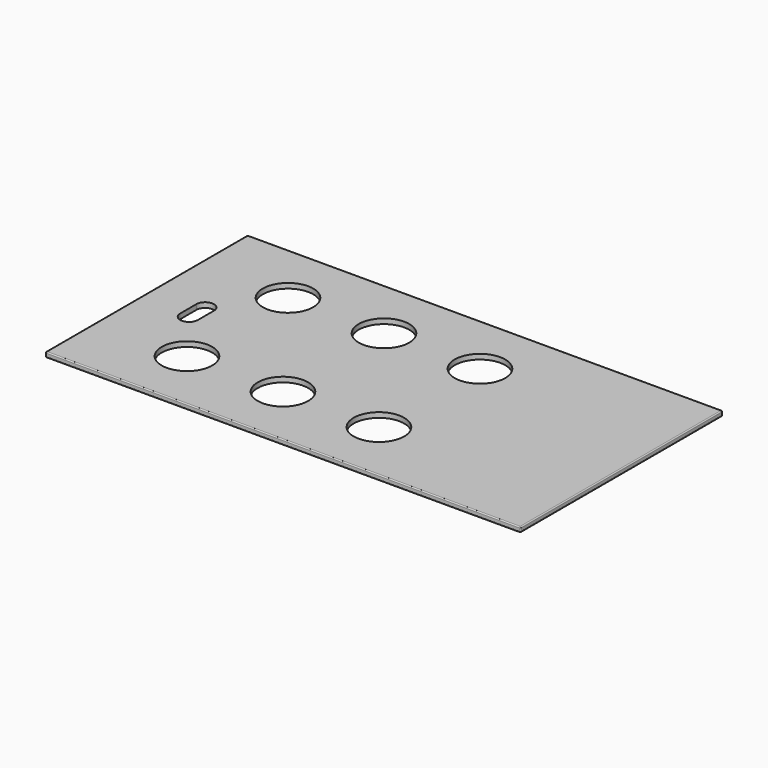
from build123d import *

# Parameters (mm, degrees)
F0_W     = 470
F0_H     = 250
F1_DEPTH = 5
F2_R     = 1
F3_D     = 50


with BuildPart() as f1:
    # F0 (on Top) → F1 (new body)
    with BuildSketch(Plane.XY):
        Rectangle(F0_W, F0_H)
        with BuildLine():
            ThreePointArc((-193.731551, 10), (-185, 18.731551), (-176.268449, 10))
            Line((-176.268449, 10), (-176.268449, -10))
            ThreePointArc((-176.268449, -10), (-185, -18.731551), (-193.731551, -10))
            Line((-193.731551, -10), (-193.731551, 10))
        make_face(mode=Mode.SUBTRACT)
    extrude(amount=F1_DEPTH)

    # F2
    f2_edges = [f1.edges().sort_by_distance(p)[0] for p in [
        (-235, -125, 2.5),
        (235, -125, 2.5),
        (0, -125, 0),
        (0, -125, 5),
        (235, 125, 2.5),
        (235, 0, 0),
        (235, 0, 5),
        (-235, 125, 2.5),
        (-235, 0, 0),
        (-235, 0, 5),
        (0, 125, 0),
        (0, 125, 5),
    ]]
    fillet(f2_edges, radius=F2_R)

    # F3 (through all)
    with Locations(Plane(origin=(0, 0, 0), x_dir=(1, 0, 0), z_dir=(0, 0, -1))):
        with Locations((-145, 62.5), (-145, -62.5), (-50, -62.5), (-50, 62.5), (45, 62.5), (45, -62.5)):
            Hole(F3_D / 2)


solid = f1.part
